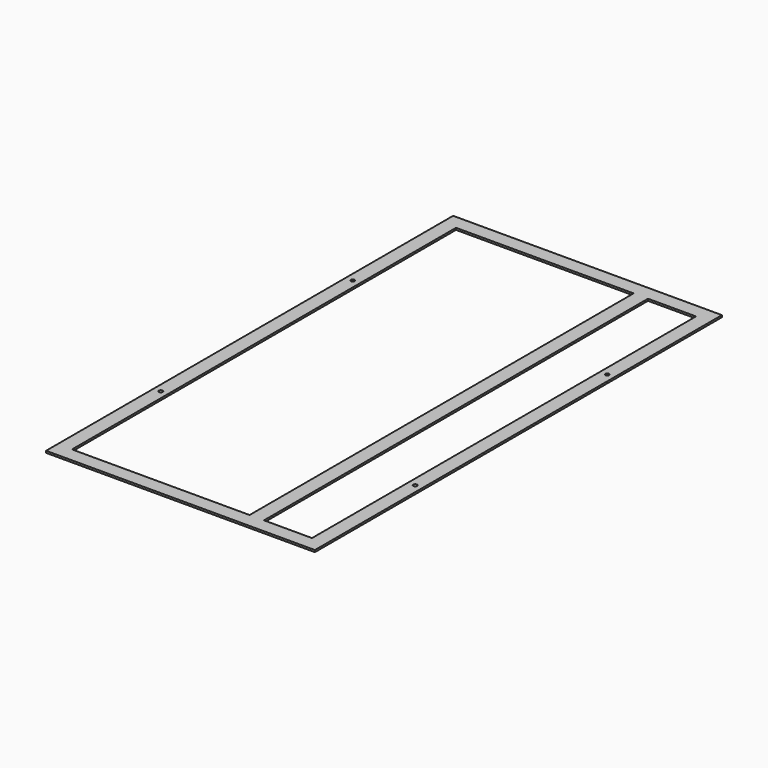
from build123d import *

# Parameters (mm, degrees)
SKETCH_W   = 280
SKETCH_H   = 530
SKETCH_R   = 2
SKETCH_W_2 = 185
SKETCH_H_2 = 500
SKETCH_W_3 = 50
PAD_DEPTH  = 2


with BuildPart() as part:
    # Sketch → Pad (new body)
    with BuildSketch(Plane.XY):
        Rectangle(SKETCH_W, SKETCH_H)
        with Locations((-132.5, 125)):
            Circle(SKETCH_R, mode=Mode.SUBTRACT)
        with Locations((-132.5, -125)):
            Circle(SKETCH_R, mode=Mode.SUBTRACT)
        with Locations((132.5, -125)):
            Circle(SKETCH_R, mode=Mode.SUBTRACT)
        with Locations((132.5, 125)):
            Circle(SKETCH_R, mode=Mode.SUBTRACT)
        with Locations((-32.5, 0)):
            Rectangle(SKETCH_W_2, SKETCH_H_2, mode=Mode.SUBTRACT)
        with Locations((100, 0)):
            Rectangle(SKETCH_W_3, SKETCH_H_2, mode=Mode.SUBTRACT)
    extrude(amount=PAD_DEPTH)


solid = part.part
